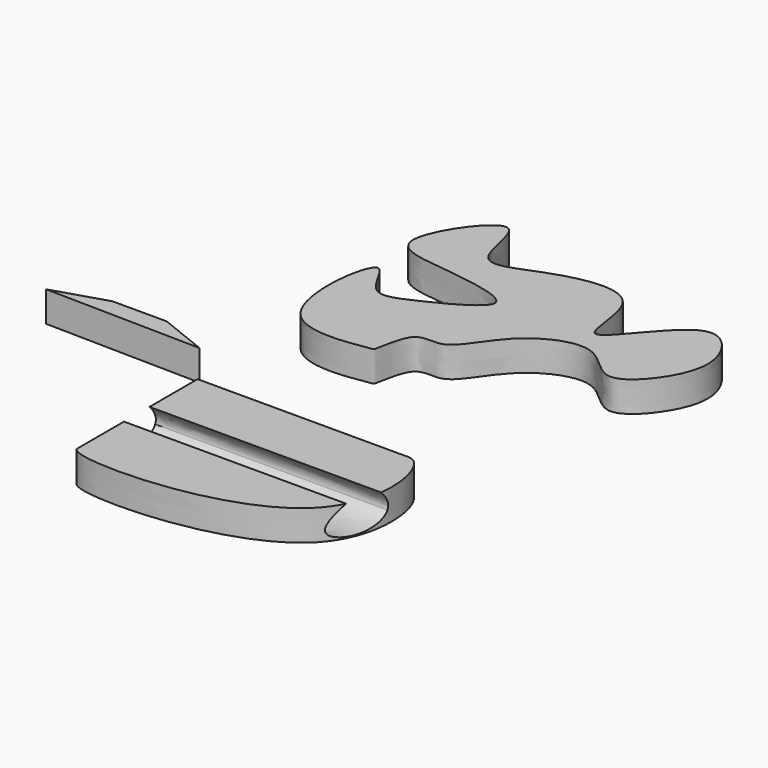
from build123d import *

# Parameters (mm, degrees)
F1_DEPTH = 152.4
F3_DEPTH = 1477.255237024


with BuildPart() as f1:
    # F0 (on Top) → F1 (new body)
    with BuildSketch(Plane.XY):
        with BuildLine():
            Line((1126.6481876373, 111.3145649433), (78.9089649916, 111.3145649433))
            Line((78.9089649916, 111.3145649433), (78.9089649916, 42.3843674362))
            Line((78.9089649916, 42.3843674362), (78.9089649916, -636.5782022476))
            add(Edge.make_bspline(
                [(1126.6481876373, 111.3145649433), (1015.1838704982, 93.3251015399), (841.6272634674, -429.0335665761), (833.1078874709, -391.9228242128), (94.4807014232, -559.9775269508), (78.9089649916, -636.5782022476)],
                knots=[0, 0, 0, 0, 0.2107676221, 0.2651559377, 0.5077101491, 0.5077101491, 0.5077101491, 0.5077101491], degree=3))
        make_face()
        with BuildLine():
            add(Edge.make_bspline(
                [(78.9089649916, -636.5782022476), (60.5484360522, -726.8975395765), (1435.5287153384, -737.1706336439), (1235.7475969782, 128.9223508433), (1126.6481876373, 111.3145649433)],
                knots=[0.5077101491, 0.5077101491, 0.5077101491, 0.5077101491, 0.7937041767, 1, 1, 1, 1], degree=3))
            add(Edge.make_bspline(
                [(1126.6481876373, 111.3145649433), (1015.1838704982, 93.3251015399), (841.6272634674, -429.0335665761), (833.1078874709, -391.9228242128), (94.4807014232, -559.9775269508), (78.9089649916, -636.5782022476)],
                knots=[0, 0, 0, 0, 0.2107676221, 0.2651559377, 0.5077101491, 0.5077101491, 0.5077101491, 0.5077101491], degree=3))
        make_face()
    extrude(amount=F1_DEPTH)

    # F2 (on face) → F3 (cut, through all)
    with BuildSketch(Plane(origin=(78.9089649916, 0, 0), x_dir=(0, -1, 0), z_dir=(-1, 0, 0))):
        with BuildLine():
            add(Edge.make_bspline(
                [(153.755903244, 61.1576065421), (131.4107097508, 104.2816798005), (237.8340282387, 206.0005233933), (282.1032258656, 188.9238190117), (374.2891532878, 149.1315896177), (492.0225386648, -23.9836967321), (182.9969554129, 4.725189599), (153.755903244, 61.1576065421)],
                knots=[0, 0, 0, 0, 0.2196045329, 0.3384487678, 0.5219201002, 0.7126242114, 1, 1, 1, 1], degree=3))
        make_face()
    extrude(amount=-F3_DEPTH, mode=Mode.SUBTRACT)


with BuildPart() as f1b:
    # F0 (on Top) → F1, piece 2 (new body)
    with BuildSketch(Plane.XY):
        Polygon((-593.1605100632, 418.053984642), (-858.5418462753, 335.3377282619), (-79.6305015683, 321.5516805649), (-320.8862245083, 418.053984642), align=None)
    extrude(amount=F1_DEPTH)


with BuildPart() as f1c:
    # F0 (on Top) → F1, piece 3 (new body)
    with BuildSketch(Plane.XY):
        with BuildLine():
            add(Edge.make_bspline(
                [(53.0277751386, 787.9419922829), (156.495947458, 672.5326004652), (441.2153741885, 743.9751050767), (466.413092922, 732.4183336773), (486.2155869166, 975.434857633), (676.6018141403, 894.0128465886), (794.3544484466, 1181.0937879494), (1143.5297028582, 1338.8413563823), (1313.774913592, 1040.7189432123), (1558.1633156079, 1322.8696571236), (1571.4346294026, 1555.881311685), (1350.1795357625, 1790.0768958594), (988.9238281889, 1170.7069206067), (1053.4699728239, 1781.4198228134), (583.2255388292, 1691.3297947873), (272.3418973725, 1510.6580057301), (281.4612215743, 2067.706656462), (-138.3189818159, 1470.3681111995), (257.2342576925, 1447.8505478669), (739.5970855673, 1367.9325214671), (327.1003223926, 1158.7853971291), (133.78146539, 1076.2484776931), (12.7639598342, 1477.4768458196), (-63.495840736, 917.9135510631), (53.0277751386, 787.9419922829)],
                knots=[0, 0, 0, 0, 0.0556537949, 0.0680054655, 0.1059010239, 0.1378038009, 0.1844403651, 0.2347320612, 0.2772235625, 0.3235967143, 0.366938719, 0.4066815142, 0.4640046369, 0.5113507387, 0.5666150583, 0.6124044891, 0.6580227199, 0.7130917574, 0.7607126427, 0.812104194, 0.8609455558, 0.8999378362, 0.9373239009, 1, 1, 1, 1], degree=3))
        make_face()
    extrude(amount=F1_DEPTH)


solid = Compound([f1.part, f1b.part, f1c.part])
